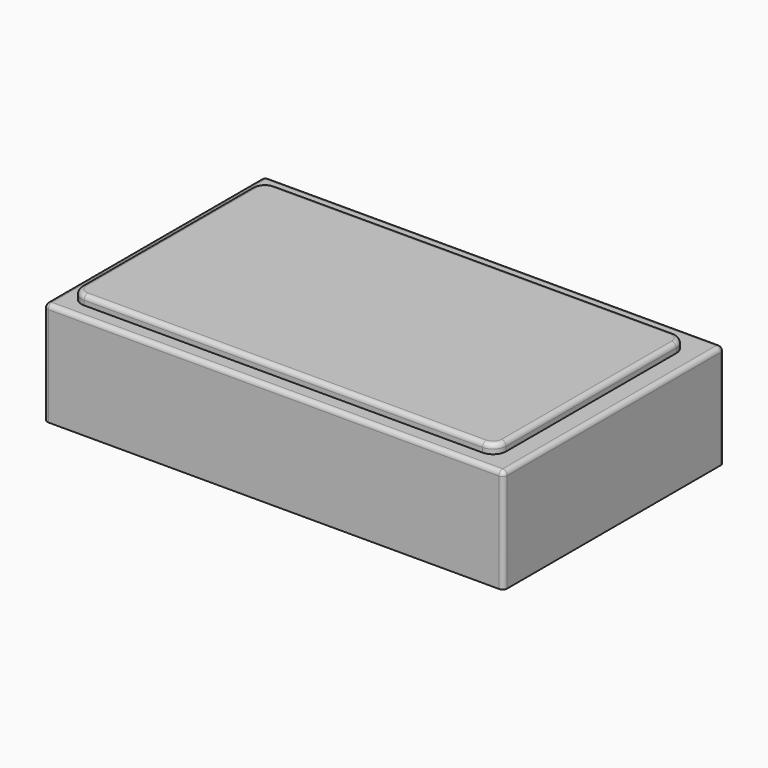
from build123d import *

# Parameters (mm, degrees)
F0_W     = 5
F0_H     = 3
F1_DEPTH = 1.13
F3_DEPTH = 0.1
F4_R     = 0.05
F5_R     = 0.05


with BuildPart() as f1:
    # F0 (on Top) → F1 (new body)
    with BuildSketch(Plane.XY):
        with Locations((2.5, 1.5)):
            Rectangle(F0_W, F0_H)
    extrude(amount=F1_DEPTH)

    # F5
    f5_edges = [f1.edges().sort_by_distance(p)[0] for p in [
        (0, 1.5, 1.13),
        (2.5, 0, 1.13),
        (5, 1.5, 1.13),
        (2.5, 3, 1.13),
        (5, 3, 0.565),
        (5, 0, 0.565),
        (0, 3, 0.565),
        (0, 0, 0.565),
    ]]
    fillet(f5_edges, radius=F5_R)


with BuildPart() as f3:
    # F2 (on face) → F3 (new body)
    with BuildSketch(Plane.XY.offset(1.13)):
        with BuildLine():
            Line((4.631715, 2.772216), (0.30048, 2.772216))
            ThreePointArc((0.30048, 2.772216), (0.199906, 2.730556), (0.158247, 2.629982))
            Line((0.158247, 2.629982), (0.158247, 0.317543))
            ThreePointArc((0.158247, 0.317543), (0.199906, 0.216969), (0.30048, 0.17531))
            Line((0.30048, 0.17531), (4.631715, 0.17531))
            ThreePointArc((4.631715, 0.17531), (4.73229, 0.216969), (4.773949, 0.317543))
            Line((4.773949, 0.317543), (4.773949, 2.629982))
            ThreePointArc((4.773949, 2.629982), (4.73229, 2.730556), (4.631715, 2.772216))
        make_face()
    extrude(amount=F3_DEPTH)

    # F4
    f4_edges = [f3.edges().sort_by_distance(p)[0] for p in [
        (2.466098, 2.772216, 1.23),
        (0.158247, 1.473763, 1.23),
        (2.466098, 0.17531, 1.23),
        (4.773949, 1.473763, 1.23),
        (4.73229, 2.730556, 1.23),
        (4.73229, 0.216969, 1.23),
        (0.199906, 0.216969, 1.23),
        (0.199906, 2.730556, 1.23),
    ]]
    fillet(f4_edges, radius=F4_R)


solid = Compound([f1.part, f3.part])
